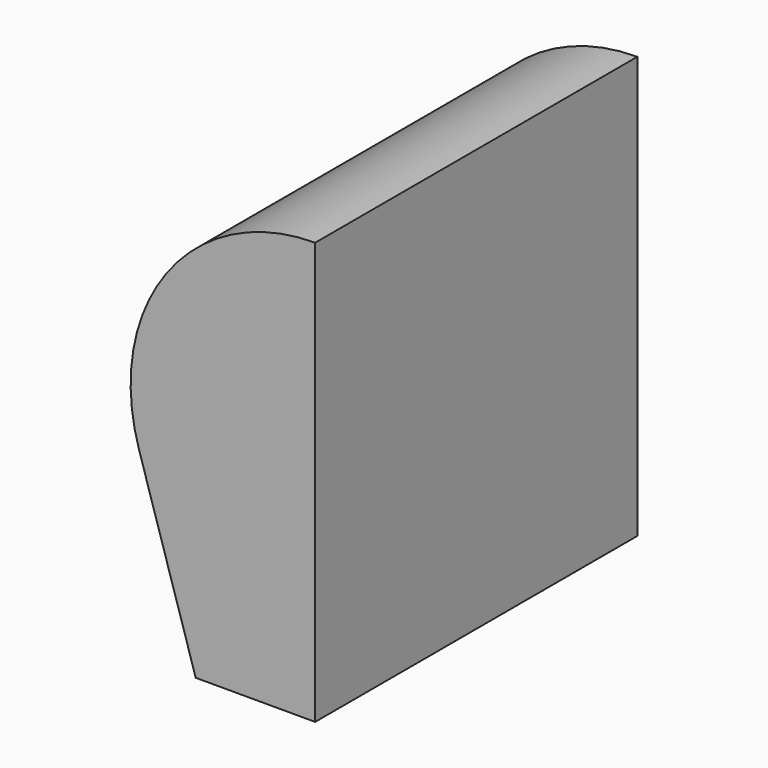
from build123d import *

# Parameters (mm, degrees)
F1_DEPTH = 35


with BuildPart() as f1:
    # F0 (on Front) → F1 (new body, symmetric)
    with BuildSketch(Plane.XZ):
        with BuildLine():
            ThreePointArc((14.189115, 40.442969), (-11.635065, 27.388711), (-16.435561, -1.146481))
            Line((-16.435561, -1.146481), (-6.569885, -32.885222))
            Line((-6.569885, -32.885222), (14.189115, -32.885222))
            Line((14.189115, -32.885222), (14.189115, 40.442969))
        make_face()
    extrude(amount=F1_DEPTH, both=True)


solid = f1.part
